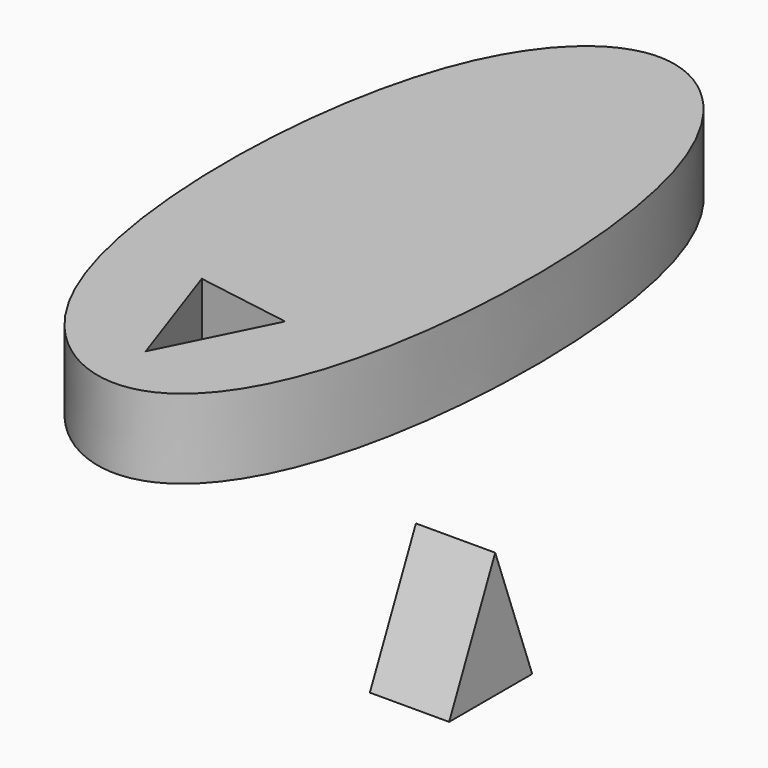
from build123d import *

# Parameters (mm, degrees)
F1_DEPTH = 25.4
F3_DEPTH = 25.4


with BuildPart() as f1:
    # F0 (on Top) → F1 (new body)
    with BuildSketch(Plane.XY):
        with BuildLine():
            add(Edge.make_bspline(
                [(-38.6502742767, 112.6160472631), (-23.9200092726, 112.2864851033), (15.6274982347, 75.6821903111), (12.9691652922, -76.1297301163), (-32.1489410614, -122.5545868034), (-92.9014706671, -79.8086855129), (-91.5143101117, 79.1024713842), (-52.9885842178, 112.9368401608), (-38.6502742767, 112.6160472631)],
                knots=[0, 0, 0, 0, 0.1381846385, 0.3665218339, 0.4968232914, 0.6342448523, 0.8654922925, 1, 1, 1, 1], degree=3))
        make_face()
        Polygon((-39.7581756115, -92.1913385391), (-53.3749461174, -52.7096539736), (-22.6274132729, -57.7735751867), align=None, mode=Mode.SUBTRACT)
    extrude(amount=F1_DEPTH)


with BuildPart() as f3:
    # F2 (on Right) → F3 (new body)
    with BuildSketch(Plane.YZ):
        Polygon((-18.8480019569, -74.2351561785), (-33.6667895317, -34.0037196875), (-52.1132051945, -74.2351561785), align=None)
    extrude(amount=F3_DEPTH)


solid = Compound([f1.part, f3.part])
